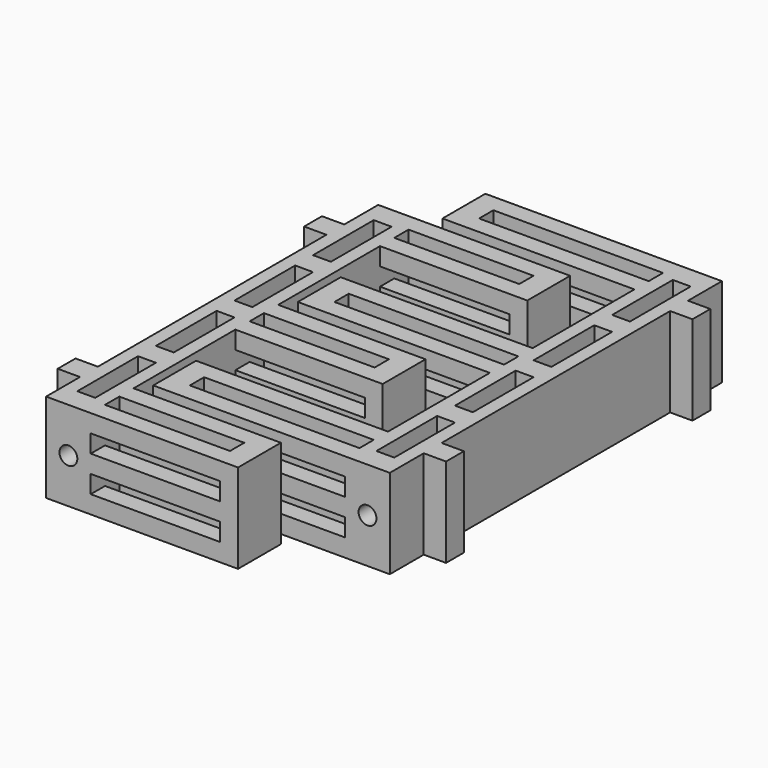
from build123d import *

# Parameters (mm, degrees)
SKETCH_W        = 4
SKETCH_H        = 17
SKETCH_W_2      = 28
SKETCH_H_2      = 4
PAD_DEPTH       = 20
SKETCH001_R     = 2
SKETCH001_W     = 29
SKETCH001_H     = 4
POCKET_DEPTH    = 93.001
SKETCH002_W     = 4
SKETCH002_H     = 17
SKETCH002_W_2   = 38
SKETCH002_H_2   = 4
PAD001_DEPTH    = 20
SKETCH003_R     = 2
SKETCH003_W     = 39
SKETCH003_H     = 4
POCKET001_DEPTH = 93.001


with BuildPart() as obj1:
    # Sketch → Pad (new body)
    with BuildSketch(Plane.XY):
        Polygon((-10, -46.5), (33, -46.5), (33, -34.5), (0, -34.5), (0, -6), (33, -6), (33, 6), (0, 6), (0, 34.5), (33, 34.5), (33, 46.5), (-10, 46.5), (-10, 37), (-15, 37), (-15, 32), (-10, 32), (-10, -32), (-15, -32), (-15, -37), (-10, -37), align=None)
        with Locations((-5, 33)):
            Rectangle(SKETCH_W, SKETCH_H, mode=Mode.SUBTRACT)
        with Locations((-5, -33)):
            Rectangle(SKETCH_W, SKETCH_H, mode=Mode.SUBTRACT)
        with Locations((-5, -11)):
            Rectangle(SKETCH_W, SKETCH_H, mode=Mode.SUBTRACT)
        with Locations((-5, 11)):
            Rectangle(SKETCH_W, SKETCH_H, mode=Mode.SUBTRACT)
        with Locations((14, -40.5)):
            Rectangle(SKETCH_W_2, SKETCH_H_2, mode=Mode.SUBTRACT)
        with Locations((14, 0)):
            Rectangle(SKETCH_W_2, SKETCH_H_2, mode=Mode.SUBTRACT)
        with Locations((14, 40.5)):
            Rectangle(SKETCH_W_2, SKETCH_H_2, mode=Mode.SUBTRACT)
    extrude(amount=PAD_DEPTH)

    # Sketch001 → Pocket (cut, through all)
    with BuildSketch(Plane.XZ.offset(46.5)):
        with Locations((-5, 10)):
            Circle(SKETCH001_R)
        with Locations((14.5, 14)):
            Rectangle(SKETCH001_W, SKETCH001_H)
        with Locations((14.5, 6)):
            Rectangle(SKETCH001_W, SKETCH001_H)
    extrude(amount=-POCKET_DEPTH, mode=Mode.SUBTRACT)


with BuildPart() as obj2:
    # Sketch002 → Pad001 (new body)
    with BuildSketch(Plane(origin=(45, 15, 0), x_dir=(-1, 0, 0), z_dir=(0, 0, 1))):
        Polygon((-10, -46.5), (43, -46.5), (43, -34.5), (0, -34.5), (0, -6), (43, -6), (43, 6), (0, 6), (0, 34.5), (43, 34.5), (43, 46.5), (-10, 46.5), (-10, 37), (-15, 37), (-15, 32), (-10, 32), (-10, -32), (-15, -32), (-15, -37), (-10, -37), align=None)
        with Locations((-5, 33)):
            Rectangle(SKETCH002_W, SKETCH002_H, mode=Mode.SUBTRACT)
        with Locations((-5, -33)):
            Rectangle(SKETCH002_W, SKETCH002_H, mode=Mode.SUBTRACT)
        with Locations((-5, -11)):
            Rectangle(SKETCH002_W, SKETCH002_H, mode=Mode.SUBTRACT)
        with Locations((-5, 11)):
            Rectangle(SKETCH002_W, SKETCH002_H, mode=Mode.SUBTRACT)
        with Locations((19, -40.5)):
            Rectangle(SKETCH002_W_2, SKETCH002_H_2, mode=Mode.SUBTRACT)
        with Locations((19, 0)):
            Rectangle(SKETCH002_W_2, SKETCH002_H_2, mode=Mode.SUBTRACT)
        with Locations((19, 40.5)):
            Rectangle(SKETCH002_W_2, SKETCH002_H_2, mode=Mode.SUBTRACT)
    extrude(amount=PAD001_DEPTH)

    # Sketch003 → Pocket001 (cut, through all)
    with BuildSketch(Plane(origin=(45, 61.5, 0), x_dir=(-1, 0, 0), z_dir=(0, 1, 0))):
        with Locations((-5, 10)):
            Circle(SKETCH003_R)
        with Locations((19.5, 14)):
            Rectangle(SKETCH003_W, SKETCH003_H)
        with Locations((19.5, 6)):
            Rectangle(SKETCH003_W, SKETCH003_H)
    extrude(amount=-POCKET001_DEPTH, mode=Mode.SUBTRACT)


solid = Compound([obj1.part, obj2.part])
